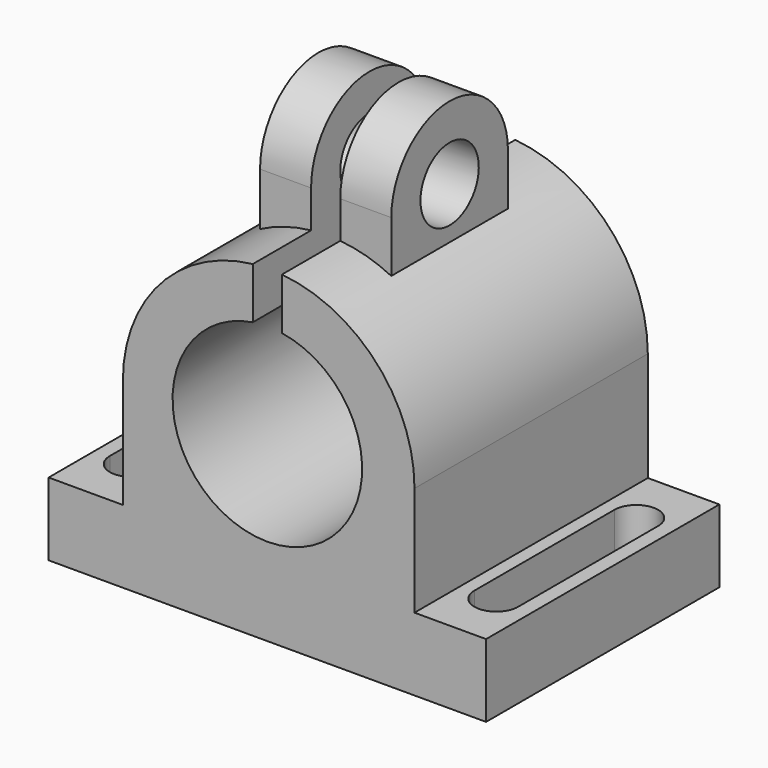
from build123d import *

# Parameters (mm, degrees)
SKETCH_W          = 60
SKETCH_H          = 10
PAD_DEPTH         = 40
PAD001_DEPTH      = 40
PAD002_DEPTH      = 9
PAD002_DEPTH_BACK = 9
SKETCH003_R       = 5
POCKET_DEPTH      = 18
POCKET001_DEPTH   = 40
POCKET002_DEPTH   = 10


with BuildPart() as part:
    # Sketch → Pad (new body)
    with BuildSketch(Plane.XZ):
        Rectangle(SKETCH_W, SKETCH_H)
    extrude(amount=PAD_DEPTH)

    # Sketch001 → Pad001 (join)
    with BuildSketch(Plane.XZ):
        with BuildLine():
            Line((-19.816975, 4.999952), (-19.816975, 20))
            ThreePointArc((20.183025, 19.999952), (0.183049, 40), (-19.816975, 20))
            Line((20.183025, 19.999952), (20.183025, 4.999952))
            Line((20.183025, 4.999952), (-19.816975, 4.999952))
        make_face()
    extrude(amount=PAD001_DEPTH)

    # Sketch002 → Pad002 (join, two sides)
    with BuildSketch(Plane.YZ) as pad002_sk:
        with BuildLine():
            Line((-30, 25), (-30, 45))
            ThreePointArc((-10, 45), (-20, 55), (-30, 45))
            Line((-10, 45), (-10, 25))
            Line((-10, 25), (-30, 25))
        make_face()
    extrude(amount=PAD002_DEPTH)
    extrude(pad002_sk.sketch, amount=-PAD002_DEPTH_BACK)

    # Sketch003 (on Face17 of Pad002) → Pocket (cut)
    with BuildSketch(Plane(origin=(9, 0, 0), x_dir=(0, 0, 1), z_dir=(1, 0, 0))):
        with Locations((45, 20)):
            Circle(SKETCH003_R)
    extrude(amount=-POCKET_DEPTH, mode=Mode.SUBTRACT)

    # Sketch004 (on Face12 of Pocket) → Pocket001 (cut)
    with BuildSketch(Plane.XZ.offset(40)):
        with BuildLine():
            ThreePointArc((-2, 32.845233), (0, 7), (2, 32.845233))
            Line((2, 57.141209), (2, 32.845233))
            Line((-2, 57.141209), (2, 57.141209))
            Line((-2, 32.845233), (-2, 57.141209))
        make_face()
    extrude(amount=-POCKET001_DEPTH, mode=Mode.SUBTRACT)

    # Sketch005 (on Face8 of Pocket001) → Pocket002 (cut)
    with BuildSketch(Plane(origin=(0, 0, 5), x_dir=(-1, 0, 0), z_dir=(0, 0, 1))):
        with BuildLine():
            ThreePointArc((-28, 8), (-25, 5), (-22, 8))
            Line((-22, 8), (-22, 32))
            ThreePointArc((-22, 32), (-25, 35), (-28, 32))
            Line((-28, 8), (-28, 32))
        make_face()
        with BuildLine():
            ThreePointArc((22, 8), (25, 5), (28, 8))
            Line((28, 8), (28, 32))
            ThreePointArc((28, 32), (25, 35), (22, 32))
            Line((22, 8), (22, 32))
        make_face()
    extrude(amount=-POCKET002_DEPTH, mode=Mode.SUBTRACT)


solid = part.part
